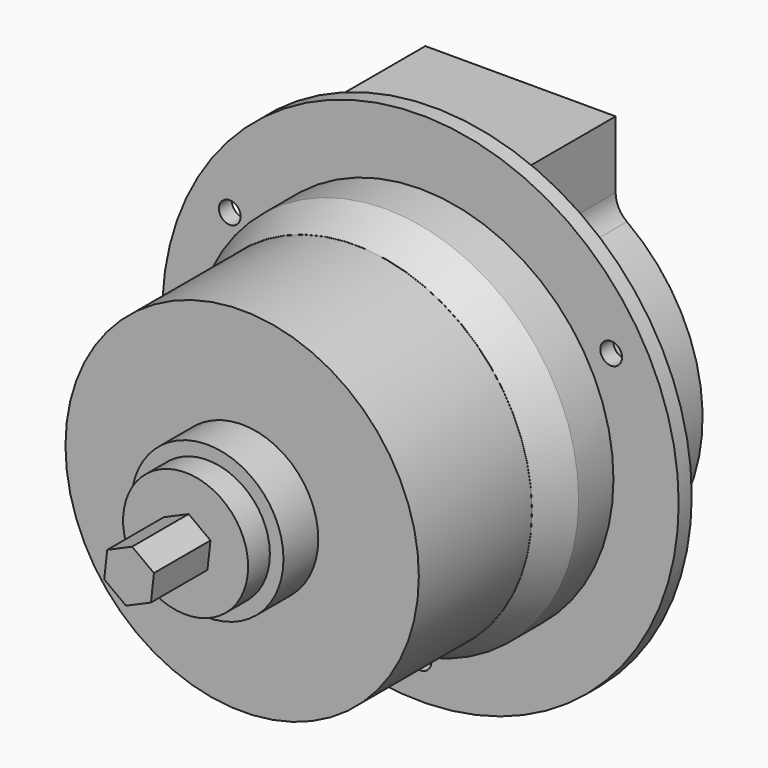
from build123d import *

# Parameters (mm, degrees)
F1_DEPTH  = 20
F2_R      = 47.5
F3_DEPTH  = 3
F4_R      = 35.5
F5_DEPTH  = 8
F6_R      = 35.5
F7_DEPTH  = 7
F7_TAPER  = 23
F8_R      = 32.5
F9_DEPTH  = 26
F10_R     = 14
F11_DEPTH = 8
F12_R     = 11.5
F13_DEPTH = 5
F15_DEPTH = 13
F16_R     = 2
F17_DEPTH = 70.001


with BuildPart() as f1:
    # F0 (on Front) → F1 (new body)
    with BuildSketch(Plane.XZ):
        with BuildLine():
            ThreePointArc((-17.5, 31.2409987036), (-18.0496972232, 28.9617871744), (-19.5779220779, 27.1837261447))
            ThreePointArc((-19.5779220779, 27.1837261447), (0, -33.5), (19.5779220779, 27.1837261447))
            ThreePointArc((19.5779220779, 27.1837261447), (18.0496972232, 28.9617871744), (17.5, 31.2409987036))
            Line((17.5, 31.2409987036), (17.5, 43.5657137142))
            Line((17.5, 43.5657137142), (0, 43.5657137142))
            Line((0, 43.5657137142), (-17.5, 43.5657137142))
            Line((-17.5, 43.5657137142), (-17.5, 31.2409987036))
        make_face()
    extrude(amount=-F1_DEPTH)

    # F2 (on face) → F3 (join)
    with BuildSketch(Plane.XZ):
        Circle(F2_R)
    extrude(amount=F3_DEPTH)

    # F4 (on face) → F5 (join)
    with BuildSketch(Plane.XZ.offset(3)):
        Circle(F4_R)
    extrude(amount=F5_DEPTH)

    # F6 (on face) → F7 (join)
    with BuildSketch(Plane.XZ.offset(11)):
        Circle(F6_R)
    extrude(amount=F7_DEPTH, taper=F7_TAPER)

    # F8 (on face) → F9 (join)
    with BuildSketch(Plane.XZ.offset(18)):
        Circle(F8_R)
    extrude(amount=F9_DEPTH)

    # F10 (on face) → F11 (join)
    with BuildSketch(Plane.XZ.offset(44)):
        Circle(F10_R)
    extrude(amount=F11_DEPTH)

    # F12 (on face) → F13 (join)
    with BuildSketch(Plane.XZ.offset(52)):
        Circle(F12_R)
    extrude(amount=F13_DEPTH)

    # F14 (on face) → F15 (join)
    with BuildSketch(Plane.XZ.offset(57)):
        Polygon((4.5744852646, 1.9992902459), (0.5558064898, 4.9612655713), (-4.0186787748, 2.9619753254), (-4.5744852646, -1.9992902459), (-0.5558064898, -4.9612655713), (4.0186787748, -2.9619753254), align=None)
    extrude(amount=F15_DEPTH)

    # F16 (on face) → F17 (cut, through all)
    with BuildSketch(Plane(origin=(0, 0, 0), x_dir=(-1, 0, 0), z_dir=(0, 1, 0))):
        with Locations((0, -40.5)):
            Circle(F16_R)
        with Locations((-35.0740288533, 20.25)):
            Circle(F16_R)
        with Locations((35.0740288533, 20.25)):
            Circle(F16_R)
    extrude(amount=-F17_DEPTH, mode=Mode.SUBTRACT)


solid = f1.part
